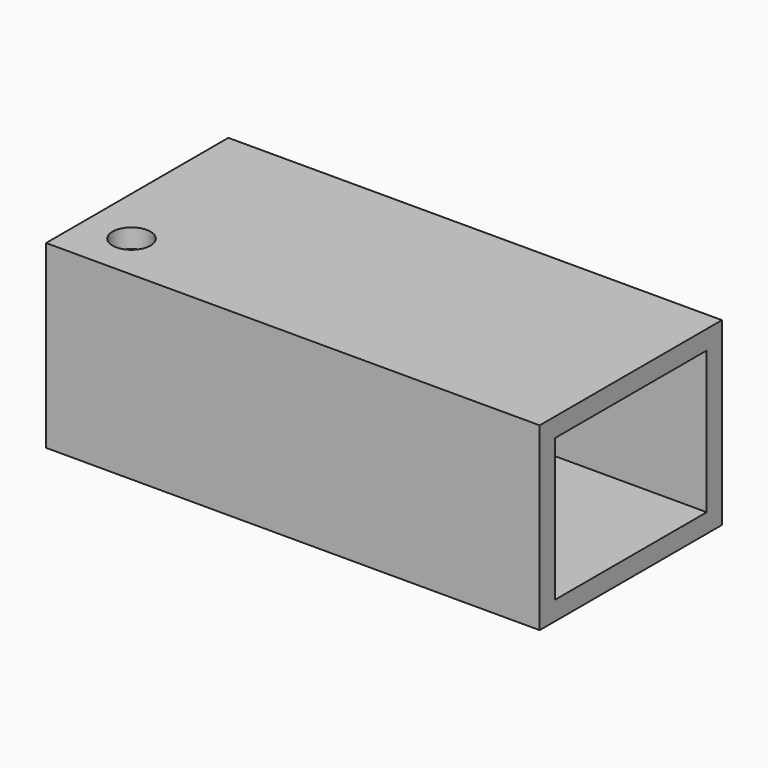
from build123d import *

# Parameters (mm, degrees)
F0_W     = 52
F0_H     = 24
F0_R     = 2
F1_DEPTH = 2
F2_W     = 52
F2_H     = 24
F2_W_2   = 48
F2_H_2   = 20
F3_DEPTH = 15
F4_W     = 52
F4_H     = 24
F4_R     = 2
F5_DEPTH = 2
F6_W     = 20
F6_H     = 15
F7_DEPTH = 2


with BuildPart() as f1:
    # F0 (on Top) → F1 (new body)
    with BuildSketch(Plane.XY):
        with Locations((26, 12)):
            Rectangle(F0_W, F0_H)
        with Locations((5, 5)):
            Circle(F0_R, mode=Mode.SUBTRACT)
    extrude(amount=F1_DEPTH)

    # F2 (on face) → F3 (join)
    with BuildSketch(Plane.XY.offset(2)):
        with Locations((26, 12)):
            Rectangle(F2_W, F2_H)
        with Locations((26, 12)):
            Rectangle(F2_W_2, F2_H_2, mode=Mode.SUBTRACT)
    extrude(amount=F3_DEPTH)

    # F4 (on face) → F5 (join)
    with BuildSketch(Plane.XY.offset(17)):
        with Locations((26, 12)):
            Rectangle(F4_W, F4_H)
        with Locations((5, 5)):
            Circle(F4_R, mode=Mode.SUBTRACT)
    extrude(amount=F5_DEPTH)

    # F6 (on face) → F7 (cut, through all)
    with BuildSketch(Plane.YZ.offset(52)):
        with Locations((12, 9.5)):
            Rectangle(F6_W, F6_H)
    extrude(amount=-F7_DEPTH, mode=Mode.SUBTRACT)


solid = f1.part
